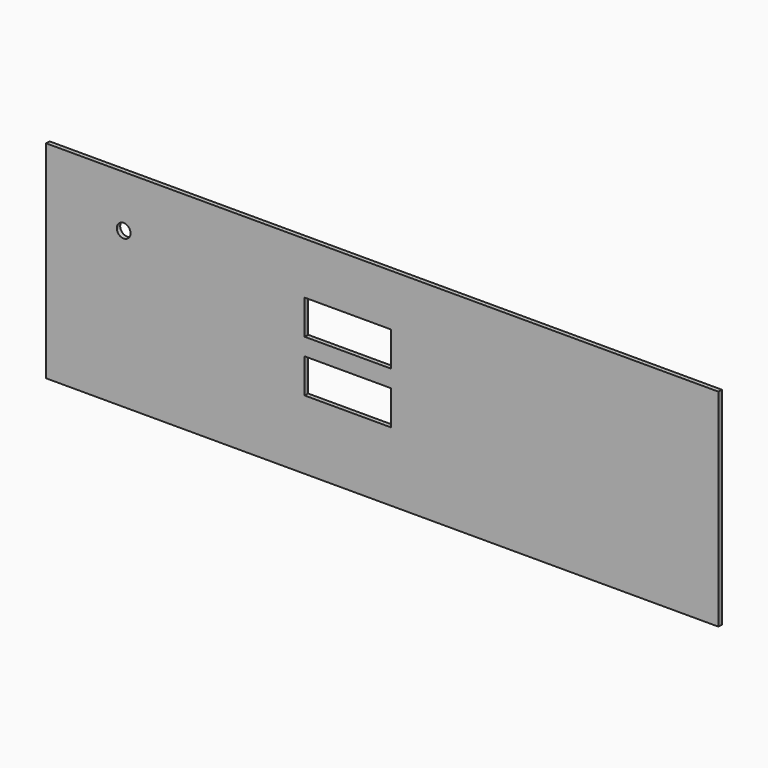
from build123d import *

# Parameters (mm, degrees)
F0_W     = 390
F0_H     = 120
F0_W_2   = 50
F0_H_2   = 20
F0_R     = 4
F1_DEPTH = 2.5


with BuildPart() as f1:
    # F0 (on Front) → F1 (new body)
    with BuildSketch(Plane.XZ):
        Rectangle(F0_W, F0_H)
        with Locations((-20, -10)):
            Rectangle(F0_W_2, F0_H_2, mode=Mode.SUBTRACT)
        with Locations((-20, 20)):
            Rectangle(F0_W_2, F0_H_2, mode=Mode.SUBTRACT)
        with Locations((-150, 30)):
            Circle(F0_R, mode=Mode.SUBTRACT)
    extrude(amount=F1_DEPTH)


solid = f1.part
